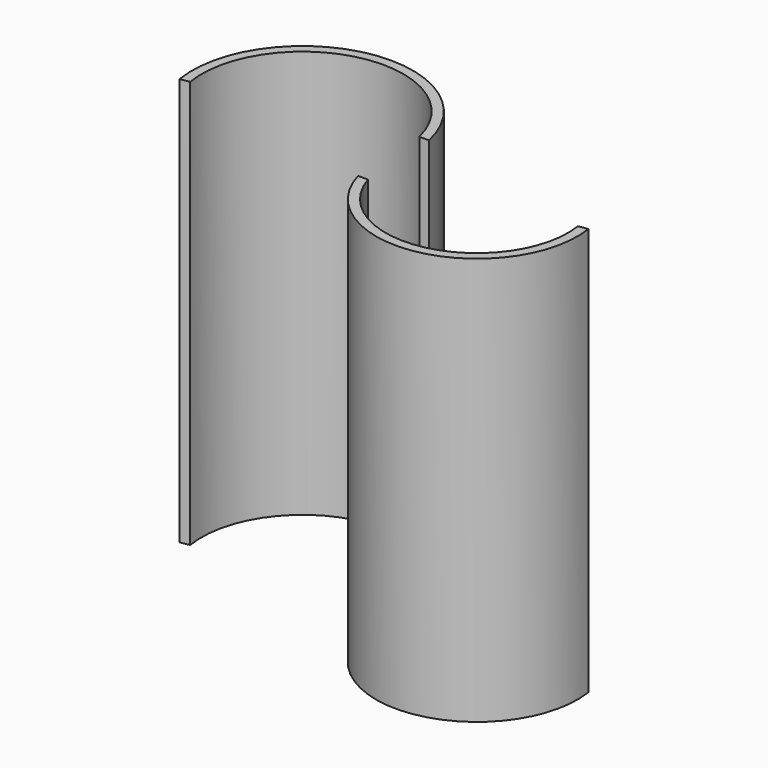
from build123d import *

# Parameters (mm, degrees)
F1_DEPTH      = 215
F2_W          = 43
F2_H          = 215
F3_DEPTH      = 7
F3_DEPTH_BACK = 7


with BuildPart() as f1:
    # F0 (on Top) → F1 (new body)
    with BuildSketch(Plane.XY):
        with BuildLine():
            ThreePointArc((-105, 0), (-52.5, 61.626583), (0, 0))
            ThreePointArc((0, 0), (52.5, -61.056566), (105, 0))
            Line((105, 0), (100.056457, -0.749253))
            ThreePointArc((100.056457, -0.749253), (52.510935, -56.056565), (4.940271, -0.770877))
            ThreePointArc((4.940271, -0.770877), (-52.512018, 66.626581), (-109.936456, -0.794608))
            Line((-109.936456, -0.794608), (-105, 0))
        make_face()
    extrude(amount=F1_DEPTH)

    # F2 (on Right) → F3 (cut, two sides)
    with BuildSketch(Plane.YZ) as f3_sk:
        with Locations((-0.766836, 107.5)):
            Rectangle(F2_W, F2_H)
    extrude(amount=F3_DEPTH, mode=Mode.SUBTRACT)
    extrude(f3_sk.sketch, amount=-F3_DEPTH_BACK, mode=Mode.SUBTRACT)


solid = f1.part
